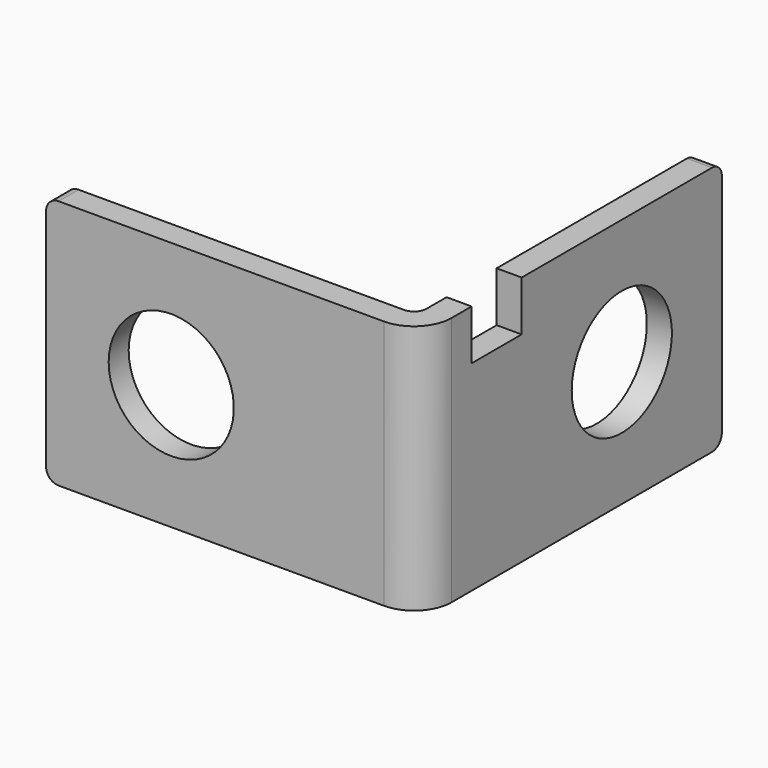
from build123d import *

# Parameters (mm, degrees)
F1_DEPTH = 20
F2_R     = 1
F3_R     = 3
F4_R     = 5
F5_DEPTH = 25
F6_R     = 5
F7_DEPTH = 25
F8_W     = 5
F8_H     = 4
F9_DEPTH = 25


with BuildPart() as f1:
    # F0 (on Top) → F1 (new body)
    with BuildSketch(Plane.XY):
        Polygon((0, 2), (0, 0), (30, 0), (30, 30), (28, 30), (28, 2), align=None)
    extrude(amount=F1_DEPTH)

    # F2
    f2_edges = [f1.edges().sort_by_distance(p)[0] for p in [
        (28, 2, 10),
        (0, 1, 0),
        (0, 1, 20),
        (29, 30, 20),
        (29, 30, 0),
    ]]
    fillet(f2_edges, radius=F2_R)

    # F3
    f3_edges = [f1.edges().sort_by_distance(p)[0] for p in [
        (30, 0, 10),
    ]]
    fillet(f3_edges, radius=F3_R)

    # F4 (on face) → F5 (cut)
    with BuildSketch(Plane(origin=(28, 0, 0), x_dir=(0, -1, 0), z_dir=(-1, 0, 0))):
        with Locations((-20, 10)):
            Circle(F4_R)
    extrude(amount=-F5_DEPTH, mode=Mode.SUBTRACT)

    # F6 (on face) → F7 (cut)
    with BuildSketch(Plane(origin=(0, 2, 0), x_dir=(-1, 0, 0), z_dir=(0, 1, 0))):
        with Locations((-10, 10)):
            Circle(F6_R)
    extrude(amount=-F7_DEPTH, mode=Mode.SUBTRACT)

    # F8 (on face) → F9 (cut)
    with BuildSketch(Plane(origin=(28, 0, 0), x_dir=(0, -1, 0), z_dir=(-1, 0, 0))):
        with Locations((-7.5, 18)):
            Rectangle(F8_W, F8_H)
    extrude(amount=-F9_DEPTH, mode=Mode.SUBTRACT)


solid = f1.part
